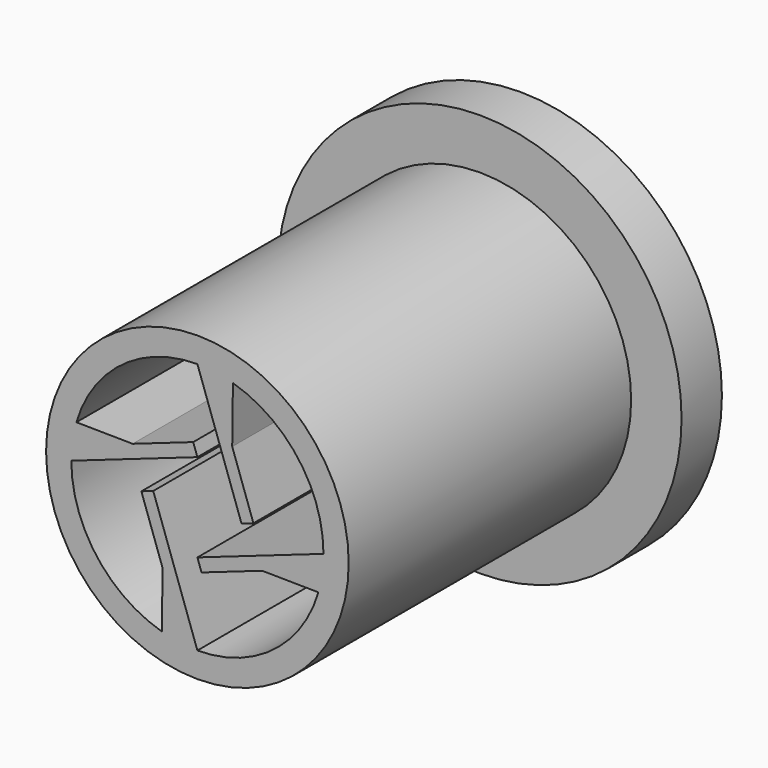
from build123d import *

# Parameters (mm, degrees)
F0_R     = 16
F0_R_2   = 12
F1_DEPTH = 4
F2_DEPTH = 32


with BuildPart() as f1:
    # F0 (on Front) → F1 (new body)
    with BuildSketch(Plane.XZ):
        Circle(F0_R)
        Circle(F0_R_2, mode=Mode.SUBTRACT)
        Circle(F0_R_2)
        with BuildLine():
            ThreePointArc((2.81716, 9.594978), (8.005361, 5.992846), (10, 0))
            ThreePointArc((10, 0), (9.985368, -0.540767), (9.941514, -1.079951))
            ThreePointArc((9.941514, -1.079951), (9.806789, -1.956244), (9.594978, -2.81716))
            ThreePointArc((9.594978, -2.81716), (5.992846, -8.005361), (0, -10))
            ThreePointArc((0, -10), (-0.540767, -9.985368), (-1.079951, -9.941514))
            ThreePointArc((-1.079951, -9.941514), (-1.956244, -9.806789), (-2.81716, -9.594978))
            ThreePointArc((-2.81716, -9.594978), (-8.005361, -5.992846), (-10, 0))
            ThreePointArc((-10, 0), (-9.985368, 0.540767), (-9.941514, 1.079951))
            ThreePointArc((-9.941514, 1.079951), (-9.806789, 1.956244), (-9.594978, 2.81716))
            ThreePointArc((-9.594978, 2.81716), (-5.992846, 8.005361), (0, 10))
            ThreePointArc((0, 10), (0.540767, 9.985368), (1.079951, 9.941514))
            ThreePointArc((1.079951, 9.941514), (1.956244, 9.806789), (2.81716, 9.594978))
        make_face(mode=Mode.SUBTRACT)
    extrude(amount=F1_DEPTH)

    # F0 (on Front) → F2 (join)
    with BuildSketch(Plane.XZ):
        Circle(F0_R_2)
        with BuildLine():
            ThreePointArc((2.81716, 9.594978), (8.005361, 5.992846), (10, 0))
            ThreePointArc((10, 0), (9.985368, -0.540767), (9.941514, -1.079951))
            ThreePointArc((9.941514, -1.079951), (9.806789, -1.956244), (9.594978, -2.81716))
            ThreePointArc((9.594978, -2.81716), (5.992846, -8.005361), (0, -10))
            ThreePointArc((0, -10), (-0.540767, -9.985368), (-1.079951, -9.941514))
            ThreePointArc((-1.079951, -9.941514), (-1.956244, -9.806789), (-2.81716, -9.594978))
            ThreePointArc((-2.81716, -9.594978), (-8.005361, -5.992846), (-10, 0))
            ThreePointArc((-10, 0), (-9.985368, 0.540767), (-9.941514, 1.079951))
            ThreePointArc((-9.941514, 1.079951), (-9.806789, 1.956244), (-9.594978, 2.81716))
            ThreePointArc((-9.594978, 2.81716), (-5.992846, 8.005361), (0, 10))
            ThreePointArc((0, 10), (0.540767, 9.985368), (1.079951, 9.941514))
            ThreePointArc((1.079951, 9.941514), (1.956244, 9.806789), (2.81716, 9.594978))
        make_face(mode=Mode.SUBTRACT)
        with BuildLine():
            ThreePointArc((-1.079951, -9.941514), (-0.540767, -9.985368), (0, -10))
            Line((0, -10), (-3.5, 0))
            Line((-3.5, 0), (-4.443858, -0.33035))
            Line((-4.443858, -0.33035), (-2.761905, -5.135932))
            Line((-2.761905, -5.135932), (-1.079951, -9.941514))
        make_face()
        with BuildLine():
            ThreePointArc((-2.81716, -9.594978), (-1.956244, -9.806789), (-1.079951, -9.941514))
            Line((-1.079951, -9.941514), (-2.761905, -5.135932))
            Line((-2.761905, -5.135932), (-2.81716, -9.594978))
        make_face()
        with BuildLine():
            ThreePointArc((9.941514, -1.079951), (9.985368, -0.540767), (10, 0))
            Line((10, 0), (0, -3.5))
            Line((0, -3.5), (0.33035, -4.443858))
            Line((0.33035, -4.443858), (5.135932, -2.761905))
            Line((5.135932, -2.761905), (9.941514, -1.079951))
        make_face()
        with BuildLine():
            ThreePointArc((9.594978, -2.81716), (9.806789, -1.956244), (9.941514, -1.079951))
            Line((9.941514, -1.079951), (5.135932, -2.761905))
            Line((5.135932, -2.761905), (9.594978, -2.81716))
        make_face()
        with BuildLine():
            Line((2.761905, 5.135932), (1.079951, 9.941514))
            ThreePointArc((1.079951, 9.941514), (0.540767, 9.985368), (0, 10))
            Line((0, 10), (3.5, 0))
            Line((3.5, 0), (4.443858, 0.33035))
            Line((4.443858, 0.33035), (2.761905, 5.135932))
        make_face()
        with BuildLine():
            Line((2.761905, 5.135932), (2.81716, 9.594978))
            ThreePointArc((2.81716, 9.594978), (1.956244, 9.806789), (1.079951, 9.941514))
            Line((1.079951, 9.941514), (2.761905, 5.135932))
        make_face()
        with BuildLine():
            Line((-5.135932, 2.761905), (-9.594978, 2.81716))
            ThreePointArc((-9.594978, 2.81716), (-9.806789, 1.956244), (-9.941514, 1.079951))
            Line((-9.941514, 1.079951), (-5.135932, 2.761905))
        make_face()
        with BuildLine():
            Line((-5.135932, 2.761905), (-9.941514, 1.079951))
            ThreePointArc((-9.941514, 1.079951), (-9.985368, 0.540767), (-10, 0))
            Line((-10, 0), (0, 3.5))
            Line((0, 3.5), (-0.33035, 4.443858))
            Line((-0.33035, 4.443858), (-5.135932, 2.761905))
        make_face()
    extrude(amount=F2_DEPTH)


solid = f1.part
